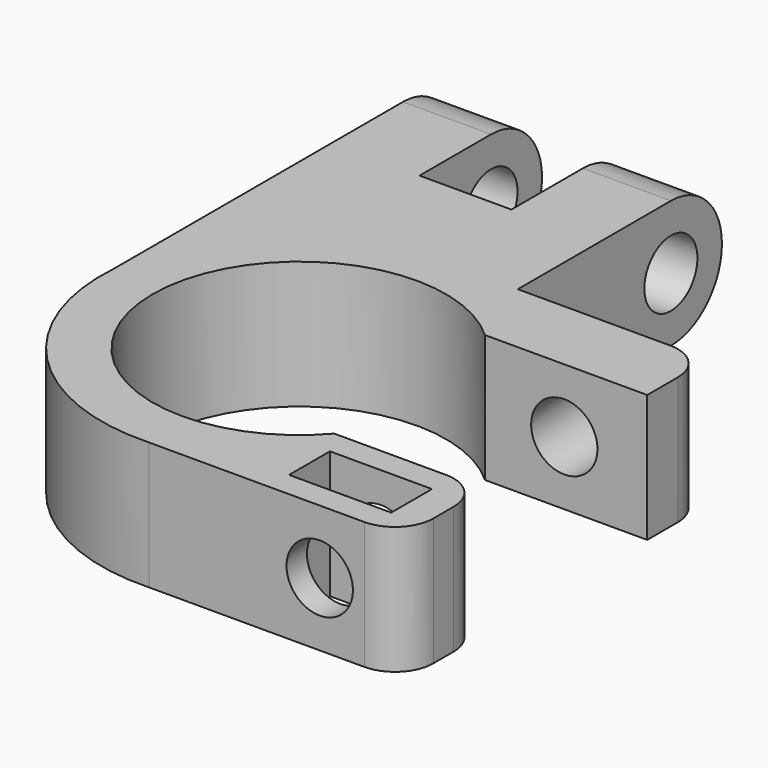
from build123d import *

# Parameters (mm, degrees)
F0_W     = 8
F0_H     = 4
F1_DEPTH = 10
F2_R     = 2.6
F3_DEPTH = 21
F4_R     = 2.6
F5_DEPTH = 50
F6_R     = 3


with BuildPart() as f1:
    # F0 (on Top) → F1 (new body)
    with BuildSketch(Plane.XY):
        with BuildLine():
            Line((20.4894011194, 8.4746686758), (20.4894011194, 14.4746686758))
            Line((20.4894011194, 14.4746686758), (5.5438223931, 14.4746686758))
            Line((5.5438223931, 14.4746686758), (5.5438223931, 34.4746686758))
            Line((5.5438223931, 34.4746686758), (-1.3561776069, 34.4746686758))
            Line((-1.3561776069, 34.4746686758), (-1.3561776069, 22.4746686758))
            Line((-1.3561776069, 22.4746686758), (-8.5561776069, 22.4746686758))
            Line((-8.5561776069, 22.4746686758), (-8.5561776069, 34.4746686758))
            Line((-8.5561776069, 34.4746686758), (-15.4561776069, 34.4746686758))
            Line((-15.4561776069, 34.4746686758), (-15.4561776069, 1.1647204743))
            ThreePointArc((-15.4561776069, 1.1647204743), (-11.1499043343, -10.7670624284), (0.6242027835, -15.4874262189))
            Line((0.6242027835, -15.4874262189), (11.5853228523, -15.4874262189))
            Line((11.5853228523, -15.4874262189), (20.4894011194, -15.4874262189))
            Line((20.4894011194, -15.4874262189), (20.4894011194, -7.4874262189))
            Line((20.4894011194, -7.4874262189), (8.7285994648, -7.4874262189))
            ThreePointArc((8.7285994648, -7.4874262189), (-11.4794758988, -0.6867554794), (7.7736729308, 8.4746686758))
            Line((7.7736729308, 8.4746686758), (20.4894011194, 8.4746686758))
        make_face()
        with Locations((13.9894011194, -11.4874262189)):
            Rectangle(F0_W, F0_H, mode=Mode.SUBTRACT)
    extrude(amount=F1_DEPTH)

    # F2 (on face) → F3 (cut, through all)
    with BuildSketch(Plane.YZ.offset(5.5438223931)):
        with BuildLine():
            ThreePointArc((34.4746686758, 5), (33.0102025817, 1.4644660941), (29.4746686758, 0))
            Line((29.4746686758, 0), (34.4746686758, 0))
            Line((34.4746686758, 0), (34.4746686758, 5))
        make_face()
        with BuildLine():
            ThreePointArc((29.4746686758, 10), (33.0102025817, 8.5355339059), (34.4746686758, 5))
            Line((34.4746686758, 5), (34.4746686758, 10))
            Line((34.4746686758, 10), (29.4746686758, 10))
        make_face()
        with Locations((29.4746686758, 5)):
            Circle(F2_R)
    extrude(amount=-F3_DEPTH, mode=Mode.SUBTRACT)

    # F4 (on face) → F5 (cut, symmetric)
    with BuildSketch(Plane(origin=(0, -13.4874262189, 0), x_dir=(-1, 0, 0), z_dir=(0, 1, 0))):
        with Locations((-13.9894011194, 5)):
            Circle(F4_R)
    extrude(amount=F5_DEPTH, both=True, mode=Mode.SUBTRACT)

    # F6
    f6_edges = [f1.edges().sort_by_distance(p)[0] for p in [
        (20.489401, 14.474669, 5),
        (20.489401, -7.487426, 5),
        (20.489401, -15.487426, 5),
    ]]
    fillet(f6_edges, radius=F6_R)


solid = f1.part
